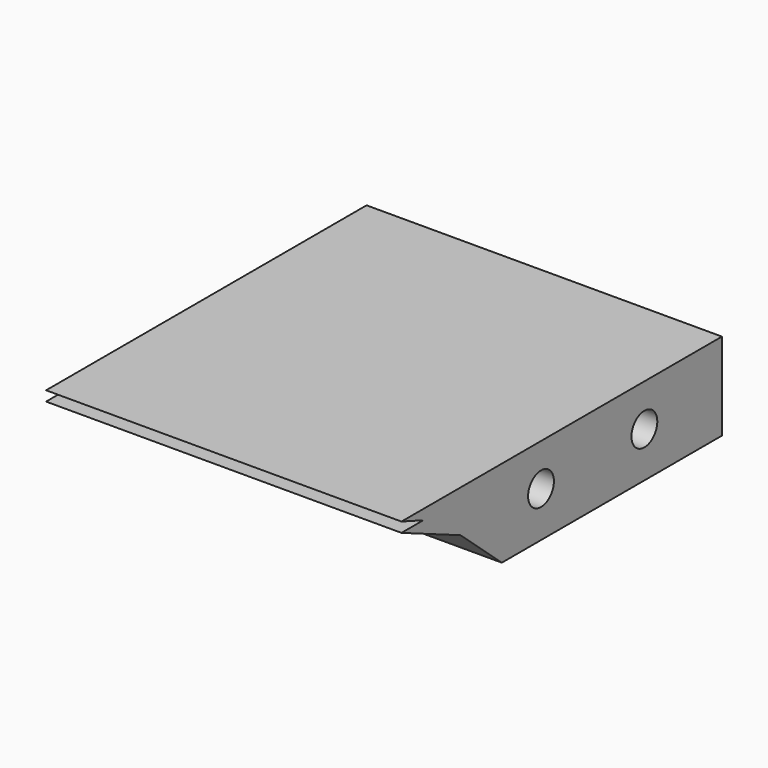
from build123d import *

# Parameters (mm, degrees)
F0_R     = 6.35
F1_DEPTH = 139.7


with BuildPart() as f1:
    # F0 (on Right) → F1 (new body)
    with BuildSketch(Plane.YZ):
        Polygon((45.672475, -17.78), (45.672475, 16.51), (-111.807525, 16.51), (-101.070702, 12.595123), (-111.807525, 12.595123), (-82.819068, 0), (-62.477541, -17.78), align=None)
        with Locations((-43.227525, 0)):
            Circle(F0_R, mode=Mode.SUBTRACT)
        with Locations((7.572475, 0)):
            Circle(F0_R, mode=Mode.SUBTRACT)
    extrude(amount=F1_DEPTH)


solid = f1.part
